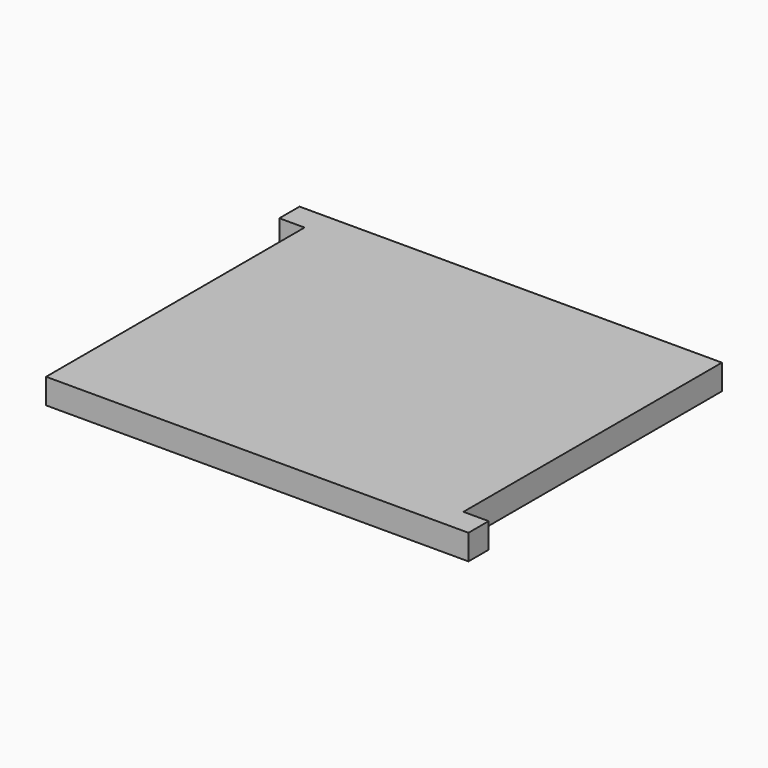
from build123d import *

# Parameters (mm, degrees)
F0_W     = 100
F0_H     = 75
F0_W_2   = 41
F0_H_2   = 41
F0_H_3   = 6.35
F0_W_3   = 6.35
F1_DEPTH = 6.35


with BuildPart() as f1:
    # F0 (on Top) → F1 (new body)
    with BuildSketch(Plane.XY):
        Rectangle(F0_W, F0_H)
        Rectangle(F0_W_2, F0_H_2, mode=Mode.SUBTRACT)
        with Locations((0, 40.675)):
            Rectangle(F0_W, F0_H_3)
        with Locations((-53.175, 40.675)):
            Rectangle(F0_W_3, F0_H_3)
        with Locations((0, -40.675)):
            Rectangle(F0_W, F0_H_3)
        with Locations((53.175, -40.675)):
            Rectangle(F0_W_3, F0_H_3)
        Rectangle(F0_W_2, F0_H_2)
    extrude(amount=F1_DEPTH)


solid = f1.part
